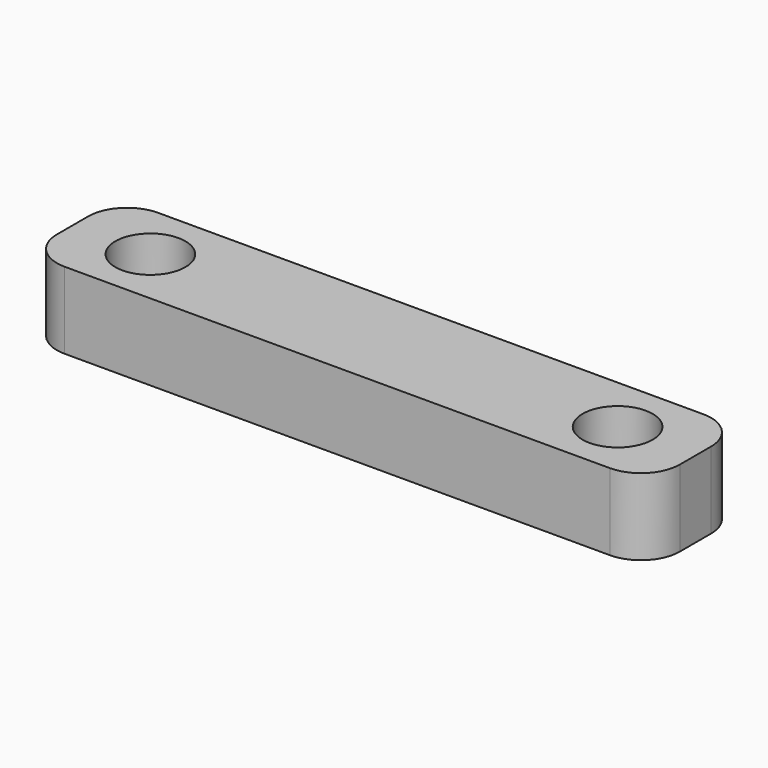
from build123d import *

# Parameters (mm, degrees)
F0_W     = 20.32
F0_H     = 3.81
F0_R     = 1.143
F1_DEPTH = 2.5
F2_R     = 1.27


with BuildPart() as f1:
    # F0 (on Top) → F1 (new body)
    with BuildSketch(Plane.XY):
        Rectangle(F0_W, F0_H)
        with Locations((-7.62, 0)):
            Circle(F0_R, mode=Mode.SUBTRACT)
        with Locations((7.62, 0)):
            Circle(F0_R, mode=Mode.SUBTRACT)
    extrude(amount=F1_DEPTH)

    # F2
    f2_edges = [f1.edges().sort_by_distance(p)[0] for p in [
        (10.16, 1.905, 1.25),
        (10.16, -1.905, 1.25),
        (-10.16, 1.905, 1.25),
        (-10.16, -1.905, 1.25),
    ]]
    fillet(f2_edges, radius=F2_R)


solid = f1.part
